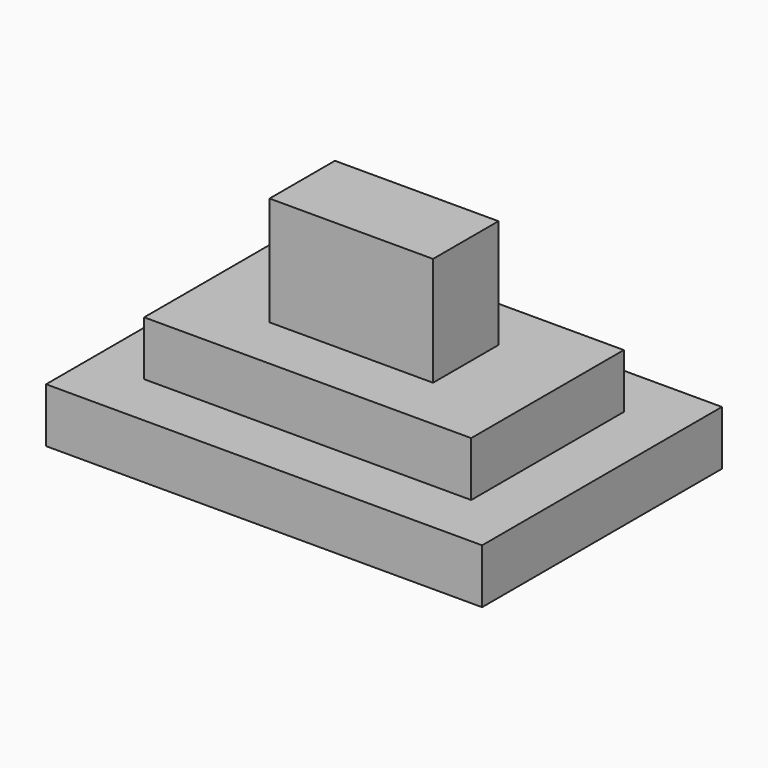
from build123d import *

# Parameters (mm, degrees)
BOX008_W     = 3
BOX008_H     = 1.5
BOX008_DEPTH = 2
BOX006_W     = 8
BOX006_H     = 5.5
BOX006_DEPTH = 1
BOX007_W     = 3
BOX007_H     = 1.5
BOX007_DEPTH = 2
BOX005_W     = 6
BOX005_H     = 3.5
BOX005_DEPTH = 2


with BuildPart() as cube006:
    # Box008 → Box008 (new body)
    with BuildSketch(Plane(origin=(12.5, 13, 10), x_dir=(1, 0, 0), z_dir=(0, 0, 1))):
        with Locations((1.5, 0.75)):
            Rectangle(BOX008_W, BOX008_H)
    extrude(amount=BOX008_DEPTH)


with BuildPart() as cube004:
    # Box006 → Box006 (new body)
    with BuildSketch(Plane(origin=(10, 11, 10), x_dir=(1, 0, 0), z_dir=(0, 0, 1))):
        with Locations((4, 2.75)):
            Rectangle(BOX006_W, BOX006_H)
    extrude(amount=BOX006_DEPTH)


with BuildPart() as cube005:
    # Box007 → Box007 (new body)
    with BuildSketch(Plane(origin=(12.5, 13, 12), x_dir=(1, 0, 0), z_dir=(0, 0, 1))):
        with Locations((1.5, 0.75)):
            Rectangle(BOX007_W, BOX007_H)
    extrude(amount=BOX007_DEPTH)


with BuildPart() as obj1:
    # Box005 → Box005 (new body)
    with BuildSketch(Plane(origin=(11, 12, 10), x_dir=(1, 0, 0), z_dir=(0, 0, 1))):
        with Locations((3, 1.75)):
            Rectangle(BOX005_W, BOX005_H)
    extrude(amount=BOX005_DEPTH)

    # Fusion001: union Cube004, Cube005
    add(cube004.part)
    add(cube005.part)

    # Cut001: cut Cube006
    add(cube006.part, mode=Mode.SUBTRACT)


solid = obj1.part
